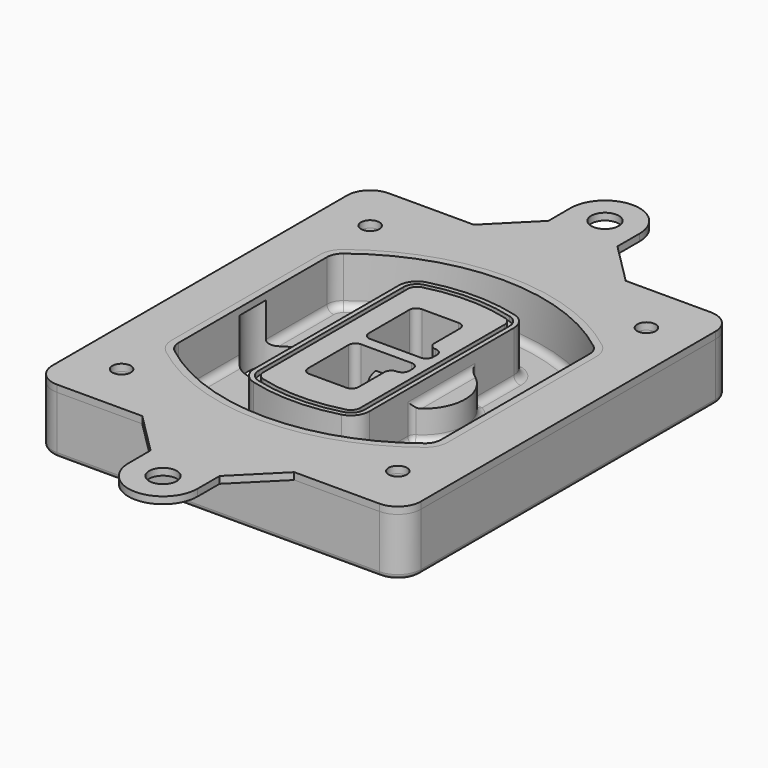
from build123d import *

# Parameters (mm, degrees)
F0_R      = 4
F1_DEPTH  = 25
F2_DEPTH  = 3
F3_DEPTH  = 18
F5_DEPTH  = 21
F6_DEPTH  = 2
F8_DEPTH  = 20
F9_DEPTH  = 16
F10_DEPTH = 25
F7_R      = 6
F7_R_2    = 4
F11_DEPTH = 6
F13_DEPTH = 9
F14_R     = 3
F15_R     = 2
F16_R     = 4
F16_R_2   = 6
F17_DEPTH = 3


with BuildPart() as f1:
    # F0 (on Top) → F1 (new body)
    with BuildSketch(Plane.XY):
        with BuildLine():
            ThreePointArc((-80, -80), (-77.0710678119, -87.0710678119), (-70, -90))
            Line((-70, -90), (70, -90))
            ThreePointArc((70, -90), (77.0710678119, -87.0710678119), (80, -80))
            Line((80, -80), (80, 80))
            ThreePointArc((80, 80), (77.0710678119, 87.0710678119), (70, 90))
            Line((70, 90), (-70, 90))
            ThreePointArc((-70, 90), (-77.0710678119, 87.0710678119), (-80, 80))
            Line((-80, 80), (-80, -80))
        make_face()
        with Locations((-60, -67.5)):
            Circle(F0_R, mode=Mode.SUBTRACT)
        with Locations((60, -67.5)):
            Circle(F0_R, mode=Mode.SUBTRACT)
        with Locations((-60, 67.5)):
            Circle(F0_R, mode=Mode.SUBTRACT)
        with BuildLine():
            ThreePointArc((-64, 40.2934422872), (-62.5820384798, 46.4328484224), (-58.6153846154, 51.3286200352))
            ThreePointArc((-58.6153846154, 51.3286200352), (0, 71.5), (58.6153846154, 51.3286200352))
            ThreePointArc((58.6153846154, 51.3286200352), (62.5820384798, 46.4328484224), (64, 40.2934422872))
            Line((64, 40.2934422872), (64, -40.2934422872))
            ThreePointArc((64, -40.2934422872), (62.5820384798, -46.4328484224), (58.6153846154, -51.3286200352))
            ThreePointArc((58.6153846154, -51.3286200352), (0, -71.5), (-58.6153846154, -51.3286200352))
            ThreePointArc((-58.6153846154, -51.3286200352), (-62.5820384798, -46.4328484224), (-64, -40.2934422872))
            Line((-64, -40.2934422872), (-64, 40.2934422872))
        make_face(mode=Mode.SUBTRACT)
        with Locations((60, 67.5)):
            Circle(F0_R, mode=Mode.SUBTRACT)
        with BuildLine():
            ThreePointArc((58.6153846154, 51.3286200352), (0, 71.5), (-58.6153846154, 51.3286200352))
            ThreePointArc((-58.6153846154, 51.3286200352), (-62.5820384798, 46.4328484224), (-64, 40.2934422872))
            Line((-64, 40.2934422872), (-64, -40.2934422872))
            ThreePointArc((-64, -40.2934422872), (-62.5820384798, -46.4328484224), (-58.6153846154, -51.3286200352))
            ThreePointArc((-58.6153846154, -51.3286200352), (0, -71.5), (58.6153846154, -51.3286200352))
            ThreePointArc((58.6153846154, -51.3286200352), (62.5820384798, -46.4328484224), (64, -40.2934422872))
            Line((64, -40.2934422872), (64, 40.2934422872))
            ThreePointArc((64, 40.2934422872), (62.5820384798, 46.4328484224), (58.6153846154, 51.3286200352))
        make_face()
        with BuildLine():
            Line((-60, -40.2934422872), (-60, 40.2934422872))
            ThreePointArc((-60, 40.2934422872), (-58.9871703427, 44.6787323838), (-56.1538461538, 48.1757121072))
            ThreePointArc((-56.1538461538, 48.1757121072), (0, 67.5), (56.1538461538, 48.1757121072))
            ThreePointArc((56.1538461538, 48.1757121072), (58.9871703427, 44.6787323838), (60, 40.2934422872))
            Line((60, 40.2934422872), (60, -40.2934422872))
            ThreePointArc((60, -40.2934422872), (58.9871703427, -44.6787323838), (56.1538461538, -48.1757121072))
            ThreePointArc((56.1538461538, -48.1757121072), (0, -67.5), (-56.1538461538, -48.1757121072))
            ThreePointArc((-56.1538461538, -48.1757121072), (-58.9871703427, -44.6787323838), (-60, -40.2934422872))
        make_face(mode=Mode.SUBTRACT)
        with BuildLine():
            ThreePointArc((-56.1538461538, 48.1757121072), (-58.9871703427, 44.6787323838), (-60, 40.2934422872))
            Line((-60, 40.2934422872), (-60, -40.2934422872))
            ThreePointArc((-60, -40.2934422872), (-58.9871703427, -44.6787323838), (-56.1538461538, -48.1757121072))
            ThreePointArc((-56.1538461538, -48.1757121072), (0, -67.5), (56.1538461538, -48.1757121072))
            ThreePointArc((56.1538461538, -48.1757121072), (58.9871703427, -44.6787323838), (60, -40.2934422872))
            Line((60, -40.2934422872), (60, 40.2934422872))
            ThreePointArc((60, 40.2934422872), (58.9871703427, 44.6787323838), (56.1538461538, 48.1757121072))
            ThreePointArc((56.1538461538, 48.1757121072), (0, 67.5), (-56.1538461538, 48.1757121072))
        make_face()
        with BuildLine():
            ThreePointArc((54.3076923077, 45.8110311612), (56.2910192399, 43.3631453548), (57, 40.2934422872))
            Line((57, 40.2934422872), (57, -40.2934422872))
            ThreePointArc((57, -40.2934422872), (56.2910192399, -43.3631453548), (54.3076923077, -45.8110311612))
            ThreePointArc((54.3076923077, -45.8110311612), (0, -64.5), (-54.3076923077, -45.8110311612))
            ThreePointArc((-54.3076923077, -45.8110311612), (-56.2910192399, -43.3631453548), (-57, -40.2934422872))
            Line((-57, -40.2934422872), (-57, 40.2934422872))
            ThreePointArc((-57, 40.2934422872), (-56.2910192399, 43.3631453548), (-54.3076923077, 45.8110311612))
            ThreePointArc((-54.3076923077, 45.8110311612), (0, 64.5), (54.3076923077, 45.8110311612))
        make_face(mode=Mode.SUBTRACT)
        with BuildLine():
            Line((57, -40.2934422872), (57, 40.2934422872))
            ThreePointArc((57, 40.2934422872), (56.2910192399, 43.3631453548), (54.3076923077, 45.8110311612))
            ThreePointArc((54.3076923077, 45.8110311612), (0, 64.5), (-54.3076923077, 45.8110311612))
            ThreePointArc((-54.3076923077, 45.8110311612), (-56.2910192399, 43.3631453548), (-57, 40.2934422872))
            Line((-57, 40.2934422872), (-57, -40.2934422872))
            ThreePointArc((-57, -40.2934422872), (-56.2910192399, -43.3631453548), (-54.3076923077, -45.8110311612))
            ThreePointArc((-54.3076923077, -45.8110311612), (0, -64.5), (54.3076923077, -45.8110311612))
            ThreePointArc((54.3076923077, -45.8110311612), (56.2910192399, -43.3631453548), (57, -40.2934422872))
        make_face()
    extrude(amount=-F1_DEPTH)

    # F0 (on Top) → F2 (join)
    with BuildSketch(Plane.XY):
        with BuildLine():
            ThreePointArc((-56.1538461538, 48.1757121072), (-58.9871703427, 44.6787323838), (-60, 40.2934422872))
            Line((-60, 40.2934422872), (-60, -40.2934422872))
            ThreePointArc((-60, -40.2934422872), (-58.9871703427, -44.6787323838), (-56.1538461538, -48.1757121072))
            ThreePointArc((-56.1538461538, -48.1757121072), (0, -67.5), (56.1538461538, -48.1757121072))
            ThreePointArc((56.1538461538, -48.1757121072), (58.9871703427, -44.6787323838), (60, -40.2934422872))
            Line((60, -40.2934422872), (60, 40.2934422872))
            ThreePointArc((60, 40.2934422872), (58.9871703427, 44.6787323838), (56.1538461538, 48.1757121072))
            ThreePointArc((56.1538461538, 48.1757121072), (0, 67.5), (-56.1538461538, 48.1757121072))
        make_face()
        with BuildLine():
            ThreePointArc((54.3076923077, 45.8110311612), (56.2910192399, 43.3631453548), (57, 40.2934422872))
            Line((57, 40.2934422872), (57, -40.2934422872))
            ThreePointArc((57, -40.2934422872), (56.2910192399, -43.3631453548), (54.3076923077, -45.8110311612))
            ThreePointArc((54.3076923077, -45.8110311612), (0, -64.5), (-54.3076923077, -45.8110311612))
            ThreePointArc((-54.3076923077, -45.8110311612), (-56.2910192399, -43.3631453548), (-57, -40.2934422872))
            Line((-57, -40.2934422872), (-57, 40.2934422872))
            ThreePointArc((-57, 40.2934422872), (-56.2910192399, 43.3631453548), (-54.3076923077, 45.8110311612))
            ThreePointArc((-54.3076923077, 45.8110311612), (0, 64.5), (54.3076923077, 45.8110311612))
        make_face(mode=Mode.SUBTRACT)
    extrude(amount=F2_DEPTH)

    # F0 (on Top) → F3 (cut)
    with BuildSketch(Plane.XY):
        with BuildLine():
            Line((57, -40.2934422872), (57, 40.2934422872))
            ThreePointArc((57, 40.2934422872), (56.2910192399, 43.3631453548), (54.3076923077, 45.8110311612))
            ThreePointArc((54.3076923077, 45.8110311612), (0, 64.5), (-54.3076923077, 45.8110311612))
            ThreePointArc((-54.3076923077, 45.8110311612), (-56.2910192399, 43.3631453548), (-57, 40.2934422872))
            Line((-57, 40.2934422872), (-57, -40.2934422872))
            ThreePointArc((-57, -40.2934422872), (-56.2910192399, -43.3631453548), (-54.3076923077, -45.8110311612))
            ThreePointArc((-54.3076923077, -45.8110311612), (0, -64.5), (54.3076923077, -45.8110311612))
            ThreePointArc((54.3076923077, -45.8110311612), (56.2910192399, -43.3631453548), (57, -40.2934422872))
        make_face()
    extrude(amount=-F3_DEPTH, mode=Mode.SUBTRACT)

    # F4 (on face) → F5 (join, through all)
    with BuildSketch(Plane.XY.offset(3)):
        with BuildLine():
            ThreePointArc((-25, -39.2465276821), (-23.3511545998, -44.1109737193), (-19.0842911877, -46.9702398883))
            ThreePointArc((-19.0842911877, -46.9702398883), (0, -49.5), (19.0842911877, -46.9702398883))
            ThreePointArc((19.0842911877, -46.9702398883), (23.3511545998, -44.1109737193), (25, -39.2465276821))
            Line((25, -39.2465276821), (25, 39.2465276821))
            ThreePointArc((25, 39.2465276821), (23.3511545998, 44.1109737193), (19.0842911877, 46.9702398883))
            ThreePointArc((19.0842911877, 46.9702398883), (0, 49.5), (-19.0842911877, 46.9702398883))
            ThreePointArc((-19.0842911877, 46.9702398883), (-23.3511545998, 44.1109737193), (-25, 39.2465276821))
            Line((-25, 39.2465276821), (-25, -39.2465276821))
        make_face()
        with BuildLine():
            ThreePointArc((18.5632183908, 45.0393118368), (21.7633659499, 42.89486221), (23, 39.2465276821))
            Line((23, 39.2465276821), (23, -39.2465276821))
            ThreePointArc((23, -39.2465276821), (21.7633659499, -42.89486221), (18.5632183908, -45.0393118368))
            ThreePointArc((18.5632183908, -45.0393118368), (0, -47.5), (-18.5632183908, -45.0393118368))
            ThreePointArc((-18.5632183908, -45.0393118368), (-21.7633659499, -42.89486221), (-23, -39.2465276821))
            Line((-23, -39.2465276821), (-23, 39.2465276821))
            ThreePointArc((-23, 39.2465276821), (-21.7633659499, 42.89486221), (-18.5632183908, 45.0393118368))
            ThreePointArc((-18.5632183908, 45.0393118368), (0, 47.5), (18.5632183908, 45.0393118368))
        make_face(mode=Mode.SUBTRACT)
        with BuildLine():
            Line((23, -39.2465276821), (23, 39.2465276821))
            ThreePointArc((23, 39.2465276821), (21.7633659499, 42.89486221), (18.5632183908, 45.0393118368))
            ThreePointArc((18.5632183908, 45.0393118368), (0, 47.5), (-18.5632183908, 45.0393118368))
            ThreePointArc((-18.5632183908, 45.0393118368), (-21.7633659499, 42.89486221), (-23, 39.2465276821))
            Line((-23, 39.2465276821), (-23, -39.2465276821))
            ThreePointArc((-23, -39.2465276821), (-21.7633659499, -42.89486221), (-18.5632183908, -45.0393118368))
            ThreePointArc((-18.5632183908, -45.0393118368), (0, -47.5), (18.5632183908, -45.0393118368))
            ThreePointArc((18.5632183908, -45.0393118368), (21.7633659499, -42.89486221), (23, -39.2465276821))
        make_face()
        with BuildLine():
            ThreePointArc((18.0421455939, 43.1083837852), (20.1755772999, 41.6787507007), (21, 39.2465276821))
            Line((21, 39.2465276821), (21, -39.2465276821))
            ThreePointArc((21, -39.2465276821), (20.1755772999, -41.6787507007), (18.0421455939, -43.1083837852))
            ThreePointArc((18.0421455939, -43.1083837852), (0, -45.5), (-18.0421455939, -43.1083837852))
            ThreePointArc((-18.0421455939, -43.1083837852), (-20.1755772999, -41.6787507007), (-21, -39.2465276821))
            Line((-21, -39.2465276821), (-21, 39.2465276821))
            ThreePointArc((-21, 39.2465276821), (-20.1755772999, 41.6787507007), (-18.0421455939, 43.1083837852))
            ThreePointArc((-18.0421455939, 43.1083837852), (0, 45.5), (18.0421455939, 43.1083837852))
        make_face(mode=Mode.SUBTRACT)
        with BuildLine():
            Line((21, -39.2465276821), (21, 39.2465276821))
            ThreePointArc((21, 39.2465276821), (20.1755772999, 41.6787507007), (18.0421455939, 43.1083837852))
            ThreePointArc((18.0421455939, 43.1083837852), (0, 45.5), (-18.0421455939, 43.1083837852))
            ThreePointArc((-18.0421455939, 43.1083837852), (-20.1755772999, 41.6787507007), (-21, 39.2465276821))
            Line((-21, 39.2465276821), (-21, -39.2465276821))
            ThreePointArc((-21, -39.2465276821), (-20.1755772999, -41.6787507007), (-18.0421455939, -43.1083837852))
            ThreePointArc((-18.0421455939, -43.1083837852), (0, -45.5), (18.0421455939, -43.1083837852))
            ThreePointArc((18.0421455939, -43.1083837852), (20.1755772999, -41.6787507007), (21, -39.2465276821))
        make_face()
        with BuildLine():
            Line((-8, -2.5), (14, -2.5))
            ThreePointArc((14, -2.5), (16.1213203436, -3.3786796564), (17, -5.5))
            Line((17, -5.5), (17, -7.5))
            ThreePointArc((17, -7.5), (16.1213203436, -9.6213203436), (14, -10.5))
            ThreePointArc((14, -10.5), (11.8786796564, -11.3786796564), (11, -13.5))
            Line((11, -13.5), (11, -27.5))
            ThreePointArc((11, -27.5), (10.1213203436, -29.6213203436), (8, -30.5))
            Line((8, -30.5), (-8, -30.5))
            ThreePointArc((-8, -30.5), (-10.1213203436, -29.6213203436), (-11, -27.5))
            Line((-11, -27.5), (-11, -5.5))
            ThreePointArc((-11, -5.5), (-10.1213203436, -3.3786796564), (-8, -2.5))
        make_face(mode=Mode.SUBTRACT)
        with BuildLine():
            ThreePointArc((-8, 2.5), (-10.1213203436, 3.3786796564), (-11, 5.5))
            Line((-11, 5.5), (-11, 27.5))
            ThreePointArc((-11, 27.5), (-10.1213203436, 29.6213203436), (-8, 30.5))
            Line((-8, 30.5), (8, 30.5))
            ThreePointArc((8, 30.5), (10.1213203436, 29.6213203436), (11, 27.5))
            Line((11, 27.5), (11, 13.5))
            ThreePointArc((11, 13.5), (11.8786796564, 11.3786796564), (14, 10.5))
            ThreePointArc((14, 10.5), (16.1213203436, 9.6213203436), (17, 7.5))
            Line((17, 7.5), (17, 5.5))
            ThreePointArc((17, 5.5), (16.1213203436, 3.3786796564), (14, 2.5))
            Line((14, 2.5), (-8, 2.5))
        make_face(mode=Mode.SUBTRACT)
    extrude(amount=-F5_DEPTH)

    # F4 (on face) → F6 (cut)
    with BuildSketch(Plane.XY.offset(3)):
        with BuildLine():
            Line((23, -39.2465276821), (23, 39.2465276821))
            ThreePointArc((23, 39.2465276821), (21.7633659499, 42.89486221), (18.5632183908, 45.0393118368))
            ThreePointArc((18.5632183908, 45.0393118368), (0, 47.5), (-18.5632183908, 45.0393118368))
            ThreePointArc((-18.5632183908, 45.0393118368), (-21.7633659499, 42.89486221), (-23, 39.2465276821))
            Line((-23, 39.2465276821), (-23, -39.2465276821))
            ThreePointArc((-23, -39.2465276821), (-21.7633659499, -42.89486221), (-18.5632183908, -45.0393118368))
            ThreePointArc((-18.5632183908, -45.0393118368), (0, -47.5), (18.5632183908, -45.0393118368))
            ThreePointArc((18.5632183908, -45.0393118368), (21.7633659499, -42.89486221), (23, -39.2465276821))
        make_face()
        with BuildLine():
            ThreePointArc((18.0421455939, 43.1083837852), (20.1755772999, 41.6787507007), (21, 39.2465276821))
            Line((21, 39.2465276821), (21, -39.2465276821))
            ThreePointArc((21, -39.2465276821), (20.1755772999, -41.6787507007), (18.0421455939, -43.1083837852))
            ThreePointArc((18.0421455939, -43.1083837852), (0, -45.5), (-18.0421455939, -43.1083837852))
            ThreePointArc((-18.0421455939, -43.1083837852), (-20.1755772999, -41.6787507007), (-21, -39.2465276821))
            Line((-21, -39.2465276821), (-21, 39.2465276821))
            ThreePointArc((-21, 39.2465276821), (-20.1755772999, 41.6787507007), (-18.0421455939, 43.1083837852))
            ThreePointArc((-18.0421455939, 43.1083837852), (0, 45.5), (18.0421455939, 43.1083837852))
        make_face(mode=Mode.SUBTRACT)
    extrude(amount=-F6_DEPTH, mode=Mode.SUBTRACT)

    # F7 (on face) → F8 (join)
    with BuildSketch(Plane(origin=(0, 0, -25), x_dir=(1, 0, 0), z_dir=(0, 0, -1))):
        with BuildLine():
            ThreePointArc((3.28842436, 0), (16.7567035675, 13.4682792075), (30.224982775, 0))
            Line((30.224982775, 0), (35.224982775, 0))
            ThreePointArc((35.224982775, 0), (16.7567035675, 18.4682792075), (-1.71157564, 0))
            Line((-1.71157564, 0), (3.28842436, 0))
        make_face()
        with BuildLine():
            Line((3.28842436, 0), (30.224982775, 0))
            ThreePointArc((30.224982775, 0), (16.7567035675, 13.4682792075), (3.28842436, 0))
        make_face()
        with BuildLine():
            ThreePointArc((3.28842436, 0), (16.7567035675, -13.4682792075), (30.224982775, 0))
            Line((30.224982775, 0), (3.28842436, 0))
        make_face()
        with BuildLine():
            Line((35.224982775, 0), (30.224982775, 0))
            ThreePointArc((30.224982775, 0), (16.7567035675, -13.4682792075), (3.28842436, 0))
            Line((3.28842436, 0), (-1.71157564, 0))
            ThreePointArc((-1.71157564, 0), (16.7567035675, -18.4682792075), (35.224982775, 0))
        make_face()
    extrude(amount=-F8_DEPTH)

    # F7 (on face) → F9 (cut)
    with BuildSketch(Plane(origin=(0, 0, -25), x_dir=(1, 0, 0), z_dir=(0, 0, -1))):
        with BuildLine():
            Line((3.28842436, 0), (30.224982775, 0))
            ThreePointArc((30.224982775, 0), (16.7567035675, 13.4682792075), (3.28842436, 0))
        make_face()
        with BuildLine():
            ThreePointArc((3.28842436, 0), (16.7567035675, -13.4682792075), (30.224982775, 0))
            Line((30.224982775, 0), (3.28842436, 0))
        make_face()
    extrude(amount=-F9_DEPTH, mode=Mode.SUBTRACT)

    # F7 (on face) → F10 (cut)
    with BuildSketch(Plane(origin=(0, 0, -25), x_dir=(1, 0, 0), z_dir=(0, 0, -1))):
        with BuildLine():
            Line((-59.0318229325, 0), (-32.0952645175, 0))
            ThreePointArc((-32.0952645175, 0), (-45.563543725, 13.4682792075), (-59.0318229325, 0))
        make_face()
        with BuildLine():
            ThreePointArc((-59.0318229325, 0), (-45.563543725, -13.4682792075), (-32.0952645175, 0))
            Line((-32.0952645175, 0), (-59.0318229325, 0))
        make_face()
    extrude(amount=-F10_DEPTH, mode=Mode.SUBTRACT)

    # F7 (on face) → F11 (cut)
    with BuildSketch(Plane(origin=(0, 0, -25), x_dir=(1, 0, 0), z_dir=(0, 0, -1))):
        with Locations((60, -67.5)):
            Circle(F7_R)
        with Locations((60, -67.5)):
            Circle(F7_R_2, mode=Mode.SUBTRACT)
        with Locations((60, -67.5)):
            Circle(F7_R)
        with Locations((60, -67.5)):
            Circle(F7_R_2, mode=Mode.SUBTRACT)
        with Locations((-60, -67.5)):
            Circle(F7_R)
        with Locations((-60, -67.5)):
            Circle(F7_R_2, mode=Mode.SUBTRACT)
        with Locations((-60, -67.5)):
            Circle(F7_R)
        with Locations((-60, -67.5)):
            Circle(F7_R_2, mode=Mode.SUBTRACT)
        with Locations((-60, 67.5)):
            Circle(F7_R)
        with Locations((-60, 67.5)):
            Circle(F7_R_2, mode=Mode.SUBTRACT)
        with Locations((-60, 67.5)):
            Circle(F7_R)
        with Locations((-60, 67.5)):
            Circle(F7_R_2, mode=Mode.SUBTRACT)
        with Locations((60, 67.5)):
            Circle(F7_R)
        with Locations((60, 67.5)):
            Circle(F7_R_2, mode=Mode.SUBTRACT)
        with Locations((60, 67.5)):
            Circle(F7_R)
        with Locations((60, 67.5)):
            Circle(F7_R_2, mode=Mode.SUBTRACT)
    extrude(amount=-F11_DEPTH, mode=Mode.SUBTRACT)

    # F12 (on face) → F13 (cut, through all)
    with BuildSketch(Plane(origin=(0, 0, -9), x_dir=(1, 0, 0), z_dir=(0, 0, -1))):
        with BuildLine():
            Line((11, 13.5), (11, 17.5481537753))
            ThreePointArc((11, 17.5481537753), (2.5696536419, 11.8239143813), (-1.5415842455, 2.5))
            Line((-1.5415842455, 2.5), (3.5224848595, 2.5))
            ThreePointArc((3.5224848595, 2.5), (6.1857188154, 8.3455872281), (11.2536447004, 12.2927168648))
            ThreePointArc((11.2536447004, 12.2927168648), (11.0640958889, 12.8831798879), (11, 13.5))
        make_face()
        with BuildLine():
            ThreePointArc((11.2536447004, -12.2927168648), (6.1857188154, -8.3455872281), (3.5224848595, -2.5))
            Line((3.5224848595, -2.5), (-1.5415842455, -2.5))
            ThreePointArc((-1.5415842455, -2.5), (2.5696536419, -11.8239143813), (11, -17.5481537753))
            Line((11, -17.5481537753), (11, -13.5))
            ThreePointArc((11, -13.5), (11.0640958889, -12.8831798879), (11.2536447004, -12.2927168648))
        make_face()
        with BuildLine():
            ThreePointArc((11.2536447004, 12.2927168648), (6.1857188154, 8.3455872281), (3.5224848595, 2.5))
            Line((3.5224848595, 2.5), (14, 2.5))
            ThreePointArc((14, 2.5), (16.1213203436, 3.3786796564), (17, 5.5))
            Line((17, 5.5), (17, 7.5))
            ThreePointArc((17, 7.5), (16.1213203436, 9.6213203436), (14, 10.5))
            ThreePointArc((14, 10.5), (12.3601599782, 10.9878446101), (11.2536447004, 12.2927168648))
        make_face()
        with BuildLine():
            Line((14, -2.5), (3.5224848595, -2.5))
            ThreePointArc((3.5224848595, -2.5), (6.1857188154, -8.3455872281), (11.2536447004, -12.2927168648))
            ThreePointArc((11.2536447004, -12.2927168648), (12.3601599782, -10.9878446101), (14, -10.5))
            ThreePointArc((14, -10.5), (16.1213203436, -9.6213203436), (17, -7.5))
            Line((17, -7.5), (17, -5.5))
            ThreePointArc((17, -5.5), (16.1213203436, -3.3786796564), (14, -2.5))
        make_face()
    extrude(amount=F13_DEPTH, mode=Mode.SUBTRACT)

    # F14
    f14_edges = [f1.edges().sort_by_distance(p)[0] for p in [
        (-57, -23.703476, -18),
        (-57, 23.703476, -18),
        (25, 0, -5),
        (25, 16.526506, -11.5),
        (25, -16.526506, -11.5),
        (25, -27.886517, -18),
        (35.224983, 0, -18),
    ]]
    fillet(f14_edges, radius=F14_R)

    # F15
    f15_edges = [f1.edges().sort_by_distance(p)[0] for p in [
        (0, -90, -25),
    ]]
    fillet(f15_edges, radius=F15_R)


with BuildPart() as f17:
    # F16 (on face) → F17 (new body, through all)
    with BuildSketch(Plane.XY):
        with BuildLine():
            Line((33, 90), (-33, 90))
            Line((-33, 90), (-70, 90))
            ThreePointArc((-70, 90), (-77.0710678119, 87.0710678119), (-80, 80))
            Line((-80, 80), (-80, -80))
            ThreePointArc((-80, -80), (-77.0710678119, -87.0710678119), (-70, -90))
            Line((-70, -90), (-33, -90))
            Line((-33, -90), (33, -90))
            Line((33, -90), (70, -90))
            ThreePointArc((70, -90), (77.0710678119, -87.0710678119), (80, -80))
            Line((80, -80), (80, 80))
            ThreePointArc((80, 80), (77.0710678119, 87.0710678119), (70, 90))
            Line((70, 90), (33, 90))
        make_face()
        with Locations((-60, -67.5)):
            Circle(F16_R, mode=Mode.SUBTRACT)
        with Locations((60, -67.5)):
            Circle(F16_R, mode=Mode.SUBTRACT)
        with Locations((-60, 67.5)):
            Circle(F16_R, mode=Mode.SUBTRACT)
        with BuildLine():
            ThreePointArc((-60, 40.2934422872), (-58.9871703427, 44.6787323838), (-56.1538461538, 48.1757121072))
            ThreePointArc((-56.1538461538, 48.1757121072), (0, 67.5), (56.1538461538, 48.1757121072))
            ThreePointArc((56.1538461538, 48.1757121072), (58.9871703427, 44.6787323838), (60, 40.2934422872))
            Line((60, 40.2934422872), (60, -40.2934422872))
            ThreePointArc((60, -40.2934422872), (58.9871703427, -44.6787323838), (56.1538461538, -48.1757121072))
            ThreePointArc((56.1538461538, -48.1757121072), (0, -67.5), (-56.1538461538, -48.1757121072))
            ThreePointArc((-56.1538461538, -48.1757121072), (-58.9871703427, -44.6787323838), (-60, -40.2934422872))
            Line((-60, -40.2934422872), (-60, 40.2934422872))
        make_face(mode=Mode.SUBTRACT)
        with Locations((60, 67.5)):
            Circle(F16_R, mode=Mode.SUBTRACT)
        with BuildLine():
            Line((-15, 120), (-15, 108))
            Line((-15, 108), (-33, 90))
            Line((-33, 90), (33, 90))
            Line((33, 90), (15, 108))
            Line((15, 108), (15, 120))
            ThreePointArc((15, 120), (0, 135), (-15, 120))
        make_face()
        with Locations((0, 120)):
            Circle(F16_R_2, mode=Mode.SUBTRACT)
        with BuildLine():
            Line((33, -90), (-33, -90))
            Line((-33, -90), (-15, -108))
            Line((-15, -108), (-15, -120))
            ThreePointArc((-15, -120), (0, -135), (15, -120))
            Line((15, -120), (15, -108))
            Line((15, -108), (33, -90))
        make_face()
        with Locations((0, -120)):
            Circle(F16_R_2, mode=Mode.SUBTRACT)
    extrude(amount=F17_DEPTH)


solid = Compound([f1.part, f17.part])
